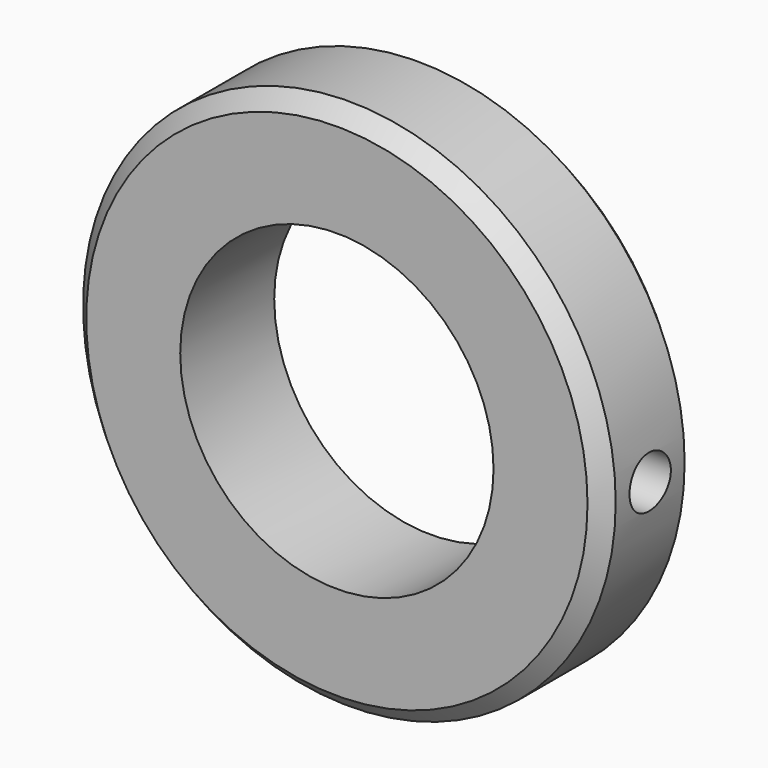
from build123d import *

# Parameters (mm, degrees)
F0_R     = 34
F0_R_2   = 20
F1_DEPTH = 15
F2_SIZE  = 2
F5_D     = 6.6
F5_DEPTH = 15
F5_START = 0.1605261
F5_TIP   = 1.9828400428


with BuildPart() as f1:
    # F0 (on Front) → F1 (new body)
    with BuildSketch(Plane.XZ):
        Circle(F0_R)
        Circle(F0_R_2, mode=Mode.SUBTRACT)
    extrude(amount=F1_DEPTH)

    # F2
    f2_edges = [f1.edges().sort_by_distance(p)[0] for p in [
        (-34, 0, 0),
        (-34, -15, 0),
    ]]
    chamfer(f2_edges, length=F2_SIZE)

    # F5
    # its depths count from where the whole tool has entered the part; down to there all is cleared
    with Locations(Plane.YZ.offset(34).offset(-F5_START)):
        with Locations((-7.5, 0)):
            Hole(F5_D / 2, depth=F5_DEPTH)
            with Locations((0, 0, -(F5_DEPTH + F5_TIP / 2))):  # 118° drill point
                Cone(0, F5_D / 2, F5_TIP, mode=Mode.SUBTRACT)


solid = f1.part
